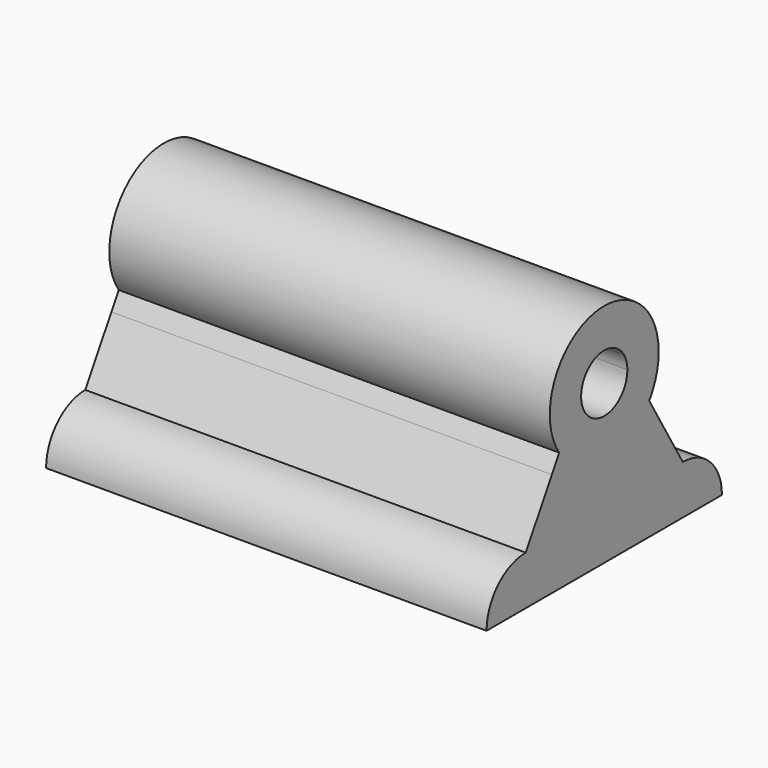
from build123d import *

# Parameters (mm, degrees)
F0_W           = 8.4991231561
F0_H           = 6.35
F1_DEPTH       = 57.15
F3_D           = 3.4544
F3_DEPTH       = 12.7
F3_CSINK_D     = 4.5974
F3_CSINK_ANGLE = 82
F3_TIP         = 1.0378064612


with BuildPart() as f1:
    # F0 (on Right) → F1 (new body)
    with BuildSketch(Plane.YZ):
        with BuildLine():
            Line((-8.4991231561, 2.5336752819), (-12.7344833851, 2.5336752819))
            ThreePointArc((-12.7344833851, 2.5336752819), (-17.2246114456, 0.6738033425), (-19.0844833851, -3.8163247181))
            Line((-19.0844833851, -3.8163247181), (-8.4991231561, -3.8163247181))
            Line((-8.4991231561, -3.8163247181), (-8.4991231561, 2.5336752819))
        make_face()
        with Locations((-4.249561578, -0.6413247181)):
            Rectangle(F0_W, F0_H)
        with Locations((4.249561578, -0.6413247181)):
            Rectangle(F0_W, F0_H)
        with BuildLine():
            ThreePointArc((19.0844833851, -3.8163247181), (17.2246114456, 0.6738033425), (12.7344833851, 2.5336752819))
            Line((12.7344833851, 2.5336752819), (8.4991231561, 2.5336752819))
            Line((8.4991231561, 2.5336752819), (8.4991231561, -3.8163247181))
            Line((8.4991231561, -3.8163247181), (19.0844833851, -3.8163247181))
        make_face()
        with BuildLine():
            ThreePointArc((8.4901041675, 9.7145254963), (0, 5.7086752819), (-8.4901041675, 9.7145254963))
            Line((-8.4901041675, 9.7145254963), (-12.7344833851, 2.5336752819))
            Line((-12.7344833851, 2.5336752819), (-8.4991231561, 2.5336752819))
            Line((-8.4991231561, 2.5336752819), (0, 2.5336752819))
            Line((0, 2.5336752819), (8.4991231561, 2.5336752819))
            Line((8.4991231561, 2.5336752819), (12.7344833851, 2.5336752819))
            Line((12.7344833851, 2.5336752819), (8.4901041675, 9.7145254963))
        make_face()
        with BuildLine():
            Line((-7.2959219906, 11.7349018344), (-8.4901041675, 9.7145254963))
            ThreePointArc((-8.4901041675, 9.7145254963), (0, 5.7086752819), (8.4901041675, 9.7145254963))
            Line((8.4901041675, 9.7145254963), (7.2959219906, 11.7349018344))
            ThreePointArc((7.2959219906, 11.7349018344), (0, 7.8786752819), (-7.2959219906, 11.7349018344))
        make_face()
        with BuildLine():
            ThreePointArc((8.83, 16.7086752819), (-2.6024900406, 25.1464442755), (-7.2959219906, 11.7349018344))
            Line((-7.2959219906, 11.7349018344), (-3.2282481135, 18.6167932336))
            ThreePointArc((-3.2282481135, 18.6167932336), (0, 20.4586752819), (3.2282481135, 18.6167932336))
            Line((3.2282481135, 18.6167932336), (7.2959219906, 11.7349018344))
            ThreePointArc((7.2959219906, 11.7349018344), (8.4377689935, 14.1061852413), (8.83, 16.7086752819))
        make_face()
        with BuildLine():
            Line((-3.2282481135, 18.6167932336), (-7.2959219906, 11.7349018344))
            ThreePointArc((-7.2959219906, 11.7349018344), (0, 7.8786752819), (7.2959219906, 11.7349018344))
            Line((7.2959219906, 11.7349018344), (3.2282481135, 18.6167932336))
            ThreePointArc((3.2282481135, 18.6167932336), (3.6172109716, 17.6977580829), (3.75, 16.7086752819))
            ThreePointArc((3.75, 16.7086752819), (-0.9890828009, 13.0914643104), (-3.2282481135, 18.6167932336))
        make_face()
    extrude(amount=-F1_DEPTH)

    # F3
    with Locations(Plane(origin=(0, 0, -3.8163247181), x_dir=(1, 0, 0), z_dir=(0, 0, -1))):
        with Locations((-28.575, 0)):
            CounterSinkHole(F3_D / 2, F3_CSINK_D / 2, depth=F3_DEPTH, counter_sink_angle=F3_CSINK_ANGLE)
            with Locations((0, 0, -(F3_DEPTH + F3_TIP / 2))):  # 118° drill point
                Cone(0, F3_D / 2, F3_TIP, mode=Mode.SUBTRACT)


solid = f1.part
